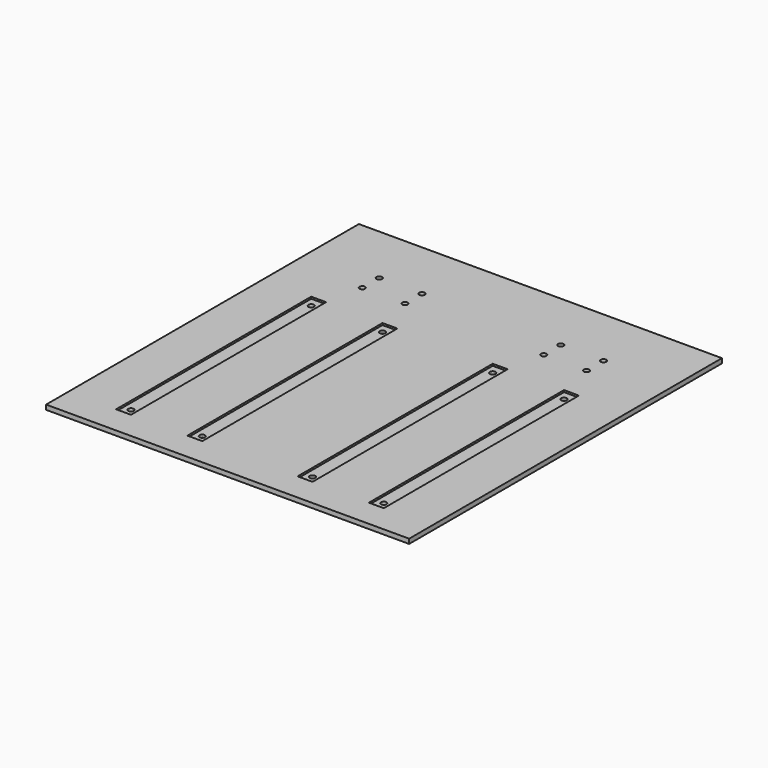
from build123d import *

# Parameters (mm, degrees)
F0_R     = 1.5
F1_DEPTH = 2.5
F0_W     = 8
F0_H     = 10
F2_DEPTH = 1.5


with BuildPart() as f1:
    # F0 (on Top) → F1 (new body)
    with BuildSketch(Plane.XY):
        Polygon((84.3733807941, 109.7766603335), (50.1233807941, 109.7766603335), (50.1233807941, -100.2233396665), (71.8733807941, -100.2233396665), (125.8733807941, -100.2233396665), (147.6233807941, -100.2233396665), (147.6233807941, 109.7766603335), (113.3733807941, 109.7766603335), align=None)
        Polygon((83.7233807941, 45.7766603335), (83.7233807941, 35.7766603335), (83.7233807941, -75.2233396665), (83.7233807941, -85.2233396665), (75.7233807941, -85.2233396665), (75.7233807941, -75.2233396665), (75.7233807941, 35.7766603335), (75.7233807941, 45.7766603335), align=None, mode=Mode.SUBTRACT)
        Polygon((114.0233807941, 35.7766603335), (114.0233807941, 45.7766603335), (122.0233807941, 45.7766603335), (122.0233807941, 35.7766603335), (122.0233807941, -75.2233396665), (122.0233807941, -85.2233396665), (114.0233807941, -85.2233396665), (114.0233807941, -75.2233396665), (114.0233807941, -39.2233396665), align=None, mode=Mode.SUBTRACT)
        Polygon((95.8733807941, 81.7233428147), (95.8733807941, 62.7766603335), (101.8733807941, 62.7766603335), (101.8733807941, 81.7233428147), (115.2483451815, 81.7233428147), (115.2483451815, 59.7766603335), (82.4984164067, 59.7766603335), (82.4984164067, 81.7233428147), align=None, mode=Mode.SUBTRACT)
        Polygon((50.1233807941, 109.7766603335), (15.8733807941, 109.7766603335), (-13.1266192059, 109.7766603335), (-47.3766192059, 109.7766603335), (-47.3766192059, -100.2233396665), (-25.6266192059, -100.2233396665), (28.3733807941, -100.2233396665), (50.1233807941, -100.2233396665), align=None)
        Polygon((-13.7766192059, -39.2233396665), (-13.7766192059, -75.2233396665), (-13.7766192059, -85.2233396665), (-21.7766192059, -85.2233396665), (-21.7766192059, -75.2233396665), (-21.7766192059, 35.7766603335), (-21.7766192059, 45.7766603335), (-13.7766192059, 45.7766603335), (-13.7766192059, 35.7766603335), align=None, mode=Mode.SUBTRACT)
        Polygon((16.5233807941, -75.2233396665), (16.5233807941, 35.7766603335), (16.5233807941, 45.7766603335), (24.5233807941, 45.7766603335), (24.5233807941, 35.7766603335), (24.5233807941, -75.2233396665), (24.5233807941, -85.2233396665), (16.5233807941, -85.2233396665), align=None, mode=Mode.SUBTRACT)
        Polygon((-15.0015835933, 59.7766603335), (-15.0015835933, 81.7233428147), (-1.6266192059, 81.7233428147), (-1.6266192059, 62.7766603335), (4.3733807941, 62.7766603335), (4.3733807941, 81.7233428147), (17.7483451815, 81.7233428147), (17.7483451815, 59.7766603335), align=None, mode=Mode.SUBTRACT)
        Polygon((-1.6266192059, 81.7233428147), (-15.0015835933, 81.7233428147), (-15.0015835933, 59.7766603335), (17.7483451815, 59.7766603335), (17.7483451815, 81.7233428147), (4.3733807941, 81.7233428147), (4.3733807941, 62.7766603335), (-1.6266192059, 62.7766603335), align=None)
        with Locations((-10.1015835933, 65.4766603335)):
            Circle(F0_R, mode=Mode.SUBTRACT)
        with Locations((-10.1015835933, 76.8766603335)):
            Circle(F0_R, mode=Mode.SUBTRACT)
        with Locations((12.8483451815, 65.4766603335)):
            Circle(F0_R, mode=Mode.SUBTRACT)
        with Locations((12.8483451815, 76.8766603335)):
            Circle(F0_R, mode=Mode.SUBTRACT)
        Polygon((101.8733807941, 62.7766603335), (95.8733807941, 62.7766603335), (95.8733807941, 81.7233428147), (82.4984164067, 81.7233428147), (82.4984164067, 59.7766603335), (115.2483451815, 59.7766603335), (115.2483451815, 81.7233428147), (101.8733807941, 81.7233428147), align=None)
        with Locations((87.3984164067, 65.4766603335)):
            Circle(F0_R, mode=Mode.SUBTRACT)
        with Locations((87.3984164067, 76.8766603335)):
            Circle(F0_R, mode=Mode.SUBTRACT)
        with Locations((110.3483451815, 65.4766603335)):
            Circle(F0_R, mode=Mode.SUBTRACT)
        with Locations((110.3483451815, 76.8766603335)):
            Circle(F0_R, mode=Mode.SUBTRACT)
    extrude(amount=F1_DEPTH)

    # F0 (on Top) → F2 (join)
    with BuildSketch(Plane.XY):
        Polygon((-20.6266192059, -75.2233396665), (-13.7766192059, -75.2233396665), (-13.7766192059, -39.2233396665), (-13.7766192059, 35.7766603335), (-13.7766192059, 45.7766603335), (-21.7766192059, 45.7766603335), (-21.7766192059, 35.7766603335), (-21.7766192059, -75.2233396665), align=None)
        with Locations((-17.7766192059, 40.7766603335)):
            Circle(F0_R, mode=Mode.SUBTRACT)
        Polygon((-13.7766192059, -85.2233396665), (-13.7766192059, -75.2233396665), (-20.6266192059, -75.2233396665), (-21.7766192059, -75.2233396665), (-21.7766192059, -85.2233396665), align=None)
        with Locations((-17.7766192059, -80.2233396665)):
            Circle(F0_R, mode=Mode.SUBTRACT)
        Polygon((24.5233807941, 35.7766603335), (16.5233807941, 35.7766603335), (16.5233807941, -75.2233396665), (23.3733807941, -75.2233396665), (24.5233807941, -75.2233396665), align=None)
        Polygon((23.3733807941, -75.2233396665), (16.5233807941, -75.2233396665), (16.5233807941, -85.2233396665), (24.5233807941, -85.2233396665), (24.5233807941, -75.2233396665), align=None)
        with Locations((20.5233807941, -80.2233396665)):
            Circle(F0_R, mode=Mode.SUBTRACT)
        with Locations((20.5233807941, 40.7766603335)):
            Rectangle(F0_W, F0_H)
        with Locations((20.5233807941, 40.7766603335)):
            Circle(F0_R, mode=Mode.SUBTRACT)
        with Locations((79.7233807941, 40.7766603335)):
            Rectangle(F0_W, F0_H)
        with Locations((79.7233807941, 40.7766603335)):
            Circle(F0_R, mode=Mode.SUBTRACT)
        Polygon((83.7233807941, -75.2233396665), (83.7233807941, 35.7766603335), (75.7233807941, 35.7766603335), (75.7233807941, -75.2233396665), (76.8733807941, -75.2233396665), align=None)
        Polygon((83.7233807941, -85.2233396665), (83.7233807941, -75.2233396665), (76.8733807941, -75.2233396665), (75.7233807941, -75.2233396665), (75.7233807941, -85.2233396665), align=None)
        with Locations((79.7233807941, -80.2233396665)):
            Circle(F0_R, mode=Mode.SUBTRACT)
        Polygon((122.0233807941, -85.2233396665), (122.0233807941, -75.2233396665), (120.8733807941, -75.2233396665), (114.0233807941, -75.2233396665), (114.0233807941, -85.2233396665), align=None)
        with Locations((118.0233807941, -80.2233396665)):
            Circle(F0_R, mode=Mode.SUBTRACT)
        Polygon((122.0233807941, 45.7766603335), (114.0233807941, 45.7766603335), (114.0233807941, 35.7766603335), (114.0233807941, -39.2233396665), (114.0233807941, -75.2233396665), (120.8733807941, -75.2233396665), (122.0233807941, -75.2233396665), (122.0233807941, 35.7766603335), align=None)
        with Locations((118.0233807941, 40.7766603335)):
            Circle(F0_R, mode=Mode.SUBTRACT)
    extrude(amount=F2_DEPTH)


solid = f1.part
